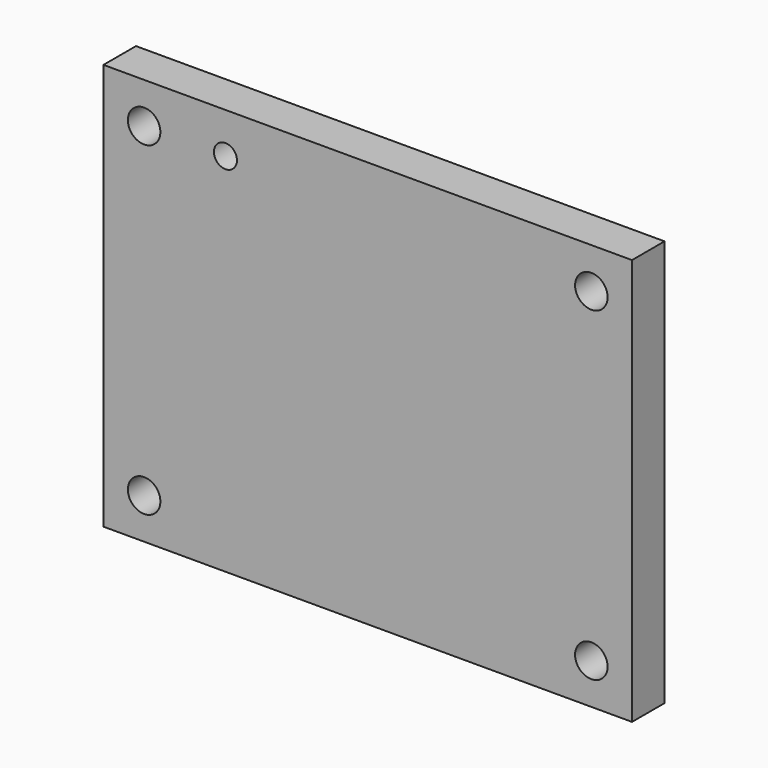
from build123d import *

# Parameters (mm, degrees)
F0_W     = 130
F0_H     = 100
F1_DEPTH = 10
F3_D     = 9
F3_DEPTH = 9
F3_TIP   = 2.7038727856
F2_R     = 4
F4_DEPTH = 25
F5_DEPTH = 25
F6_DEPTH = 25
F7_DEPTH = 25
F8_D     = 7
F8_DEPTH = 5
F8_TIP   = 2.1030121666


with BuildPart() as f1:
    # F0 (on Front) → F1 (new body)
    with BuildSketch(Plane.XZ):
        with Locations((-9.0617658345, 20.0177619606)):
            Rectangle(F0_W, F0_H)
    extrude(amount=F1_DEPTH)

    # F3
    with Locations(Plane(origin=(0, 0, 0), x_dir=(-1, 0, 0), z_dir=(0, 1, 0))):
        with Locations((44.0617658345, 60.0177619606)):
            Hole(F3_D / 2, depth=F3_DEPTH)
            with Locations((0, 0, -(F3_DEPTH + F3_TIP / 2))):  # 118° drill point
                Cone(0, F3_D / 2, F3_TIP, mode=Mode.SUBTRACT)

    # F2 (on face) → F4 (cut)
    with BuildSketch(Plane(origin=(0, 0, 0), x_dir=(-1, 0, 0), z_dir=(0, 1, 0))):
        with Locations((-45.9382341655, -19.9822380394)):
            Circle(F2_R)
    extrude(amount=-F4_DEPTH, mode=Mode.SUBTRACT)

    # F2 (on face) → F5 (cut)
    with BuildSketch(Plane(origin=(0, 0, 0), x_dir=(-1, 0, 0), z_dir=(0, 1, 0))):
        with Locations((64.0617658345, -19.9822380394)):
            Circle(F2_R)
    extrude(amount=-F5_DEPTH, mode=Mode.SUBTRACT)

    # F2 (on face) → F6 (cut)
    with BuildSketch(Plane(origin=(0, 0, 0), x_dir=(-1, 0, 0), z_dir=(0, 1, 0))):
        with Locations((64.0617658345, 60.0177619606)):
            Circle(F2_R)
    extrude(amount=-F6_DEPTH, mode=Mode.SUBTRACT)

    # F2 (on face) → F7 (cut)
    with BuildSketch(Plane(origin=(0, 0, 0), x_dir=(-1, 0, 0), z_dir=(0, 1, 0))):
        with Locations((-45.9382341655, 60.0177619606)):
            Circle(F2_R)
    extrude(amount=-F7_DEPTH, mode=Mode.SUBTRACT)

    # F8
    with Locations(Plane(origin=(0, 0, 0), x_dir=(-1, 0, 0), z_dir=(0, 1, 0))):
        with Locations((9.0617658345, 0)):
            Hole(F8_D / 2, depth=F8_DEPTH)
            with Locations((0, 0, -(F8_DEPTH + F8_TIP / 2))):  # 118° drill point
                Cone(0, F8_D / 2, F8_TIP, mode=Mode.SUBTRACT)


solid = f1.part
